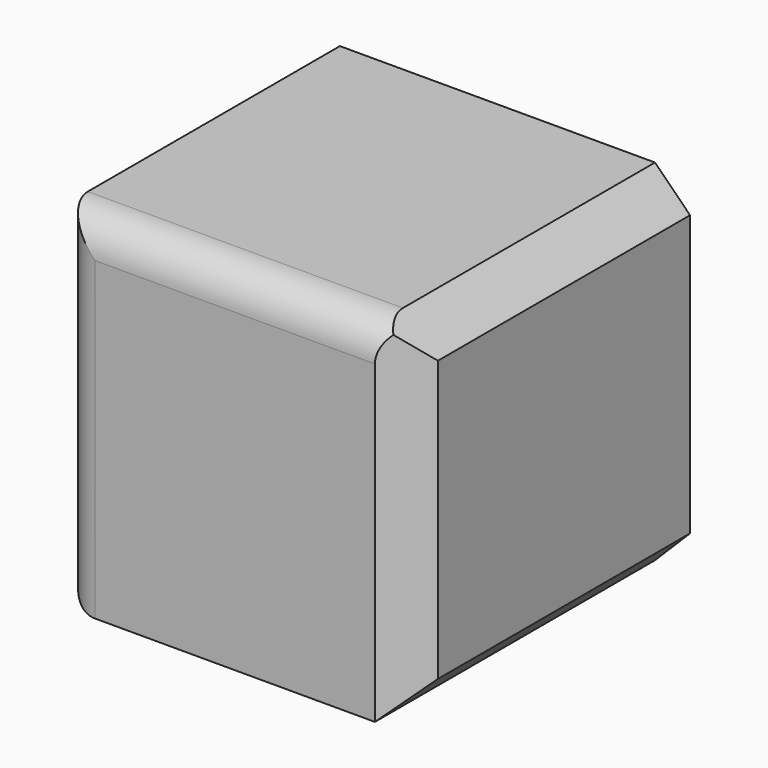
from build123d import *

# Parameters (mm, degrees)
F0_W     = 50
F0_H     = 50
F1_DEPTH = 50
F2_SIZE  = 5
F3_R     = 5


with BuildPart() as f1:
    # F0 (on Top) → F1 (new body)
    with BuildSketch(Plane.XY):
        with Locations((-2.783662, 5.017282)):
            Rectangle(F0_W, F0_H)
    extrude(amount=F1_DEPTH)

    # F2
    f2_edges = [f1.edges().sort_by_distance(p)[0] for p in [
        (22.216338, 5.017282, 50),
        (22.216338, -19.982718, 25),
        (22.216338, 5.017282, 0),
    ]]
    chamfer(f2_edges, length=F2_SIZE)

    # F3
    f3_edges = [f1.edges().sort_by_distance(p)[0] for p in [
        (-5.283662, -19.982718, 50),
        (-27.783662, -19.982718, 25),
        (-27.783662, 5.017282, 0),
    ]]
    fillet(f3_edges, radius=F3_R)


solid = f1.part
